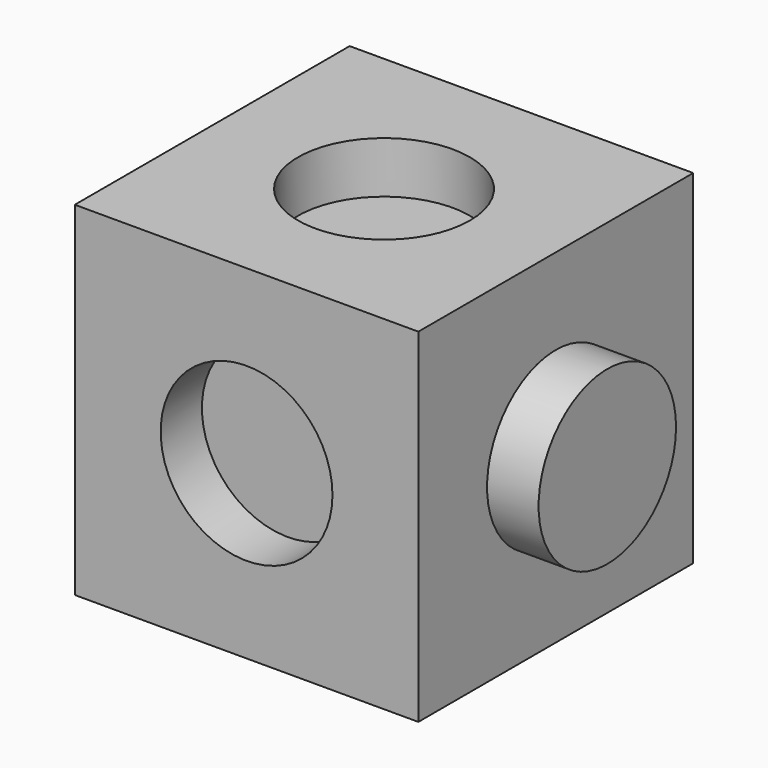
from build123d import *

# Parameters (mm, degrees)
F0_W      = 25.4
F0_H      = 25.4
F1_DEPTH  = 25.4
F7_R      = 6.35
F8_DEPTH  = 3.81
F6_R      = 6.35
F9_DEPTH  = 3.81
F5_R      = 6.35
F10_DEPTH = 3.81
F4_R      = 6.35
F11_DEPTH = 3.81
F3_R      = 6.35
F12_DEPTH = 3.81
F2_R      = 6.35
F13_DEPTH = 3.81


with BuildPart() as f1:
    # F0 (on Front) → F1 (new body)
    with BuildSketch(Plane.XZ):
        with Locations((5.750718, -12.019807)):
            Rectangle(F0_W, F0_H)
    extrude(amount=F1_DEPTH)

    # F7 (on face) → F8 (cut)
    with BuildSketch(Plane(origin=(0, 0, 0), x_dir=(-1, 0, 0), z_dir=(0, 1, 0))):
        with Locations((-5.750718, -12.019807)):
            Circle(F7_R)
    extrude(amount=-F8_DEPTH, mode=Mode.SUBTRACT)

    # F6 (on face) → F9 (cut)
    with BuildSketch(Plane(origin=(-6.949282, 0, 0), x_dir=(0, -1, 0), z_dir=(-1, 0, 0))):
        with Locations((12.7, -12.019807)):
            Circle(F6_R)
    extrude(amount=-F9_DEPTH, mode=Mode.SUBTRACT)

    # F5 (on face) → F10 (cut)
    with BuildSketch(Plane.XY.offset(0.680193)):
        with Locations((5.75072, -12.7)):
            Circle(F5_R)
    extrude(amount=-F10_DEPTH, mode=Mode.SUBTRACT)

    # F4 (on face) → F11 (join)
    with BuildSketch(Plane.YZ.offset(18.450718)):
        with Locations((-12.7, -12.019807)):
            Circle(F4_R)
    extrude(amount=F11_DEPTH)

    # F3 (on face) → F12 (cut)
    with BuildSketch(Plane(origin=(0, 0, -24.719807), x_dir=(1, 0, 0), z_dir=(0, 0, -1))):
        with Locations((5.750718, 12.7)):
            Circle(F3_R)
    extrude(amount=-F12_DEPTH, mode=Mode.SUBTRACT)

    # F2 (on face) → F13 (cut)
    with BuildSketch(Plane.XZ.offset(25.4)):
        with Locations((5.750718, -12.019807)):
            Circle(F2_R)
    extrude(amount=-F13_DEPTH, mode=Mode.SUBTRACT)


solid = f1.part
